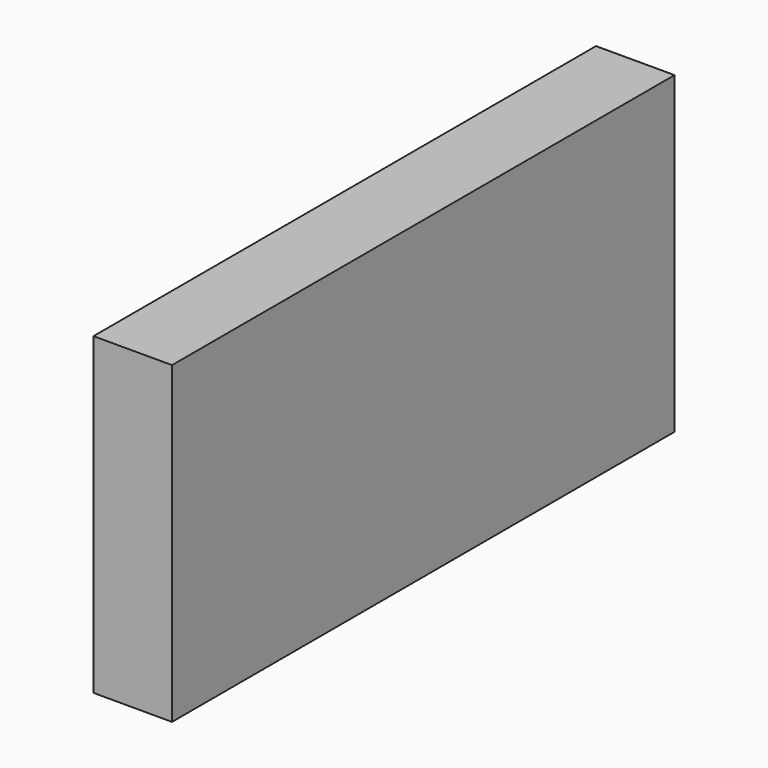
from build123d import *

# Parameters (mm, degrees)
F0_W     = 19.053454
F0_H     = 76.206883
F1_DEPTH = 152.4


with BuildPart() as f1:
    # F0 (on Front) → F1 (new body)
    with BuildSketch(Plane.XZ):
        with Locations((0, -1.3e-05)):
            Rectangle(F0_W, F0_H)
    extrude(amount=F1_DEPTH)


solid = f1.part
